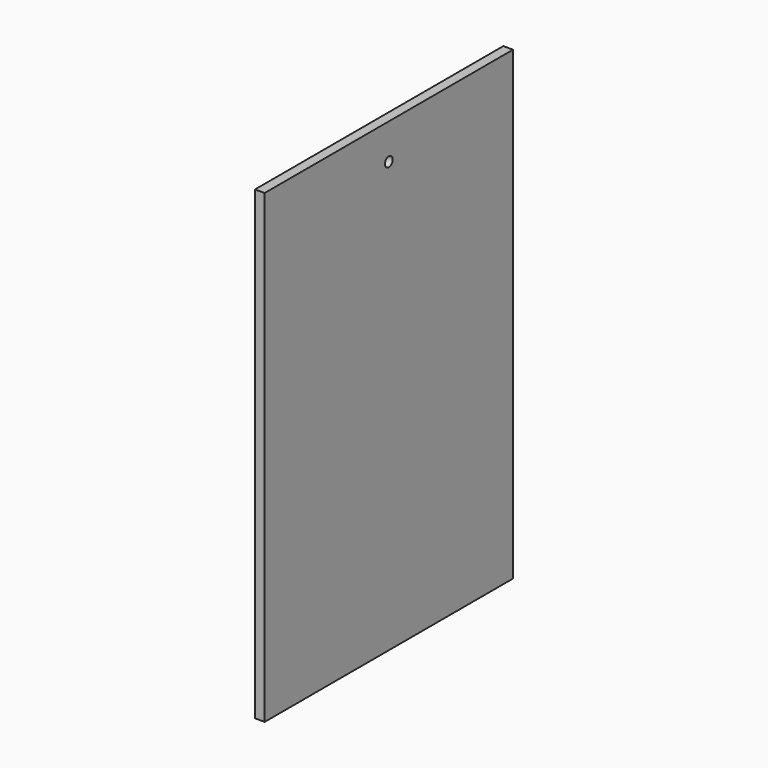
from build123d import *

# Parameters (mm, degrees)
F0_W     = 609.6
F0_H     = 914.4
F1_DEPTH = 19.05
F2_R     = 9.525
F3_DEPTH = 25.4


with BuildPart() as f1:
    # F0 (on Right) → F1 (new body)
    with BuildSketch(Plane.YZ):
        Rectangle(F0_W, F0_H)
    extrude(amount=F1_DEPTH)

    # F2 (on face) → F3 (cut)
    with BuildSketch(Plane.YZ.offset(19.05)):
        with Locations((0, 387.35)):
            Circle(F2_R)
    extrude(amount=-F3_DEPTH, mode=Mode.SUBTRACT)


solid = f1.part
